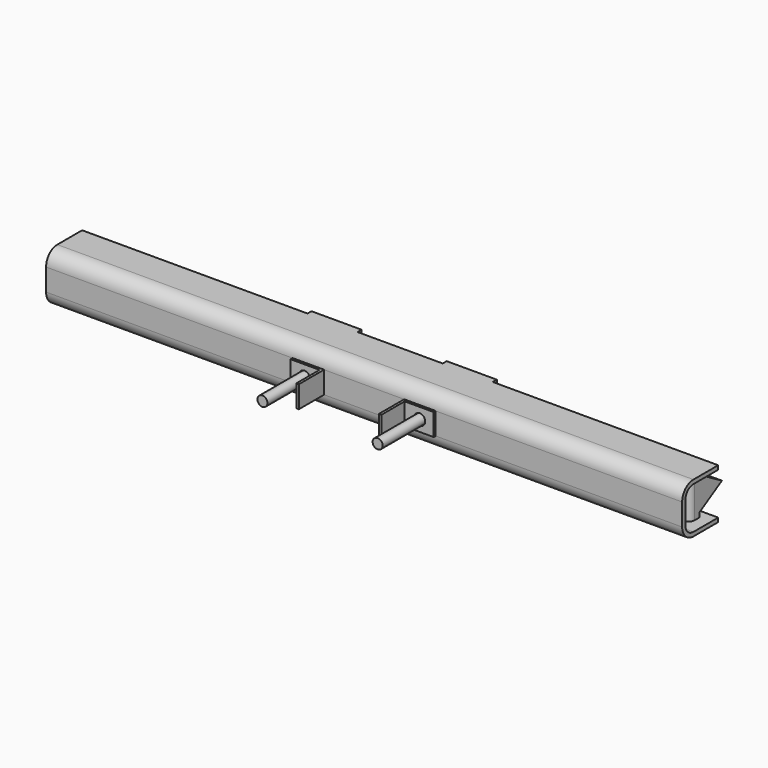
from build123d import *

# Parameters (mm, degrees)
F1_DEPTH       = 635
F3_DEPTH       = 22
F4_W           = 100
F4_H           = 100
F5_DEPTH       = 10
F6_R           = 11
F7_DEPTH       = 8
F7_DEPTH_BACK  = 63.001
F9_DEPTH       = 50
F9_DEPTH_BACK  = 50
F10_R          = 10
F11_DEPTH      = 200
F14_DEPTH      = 12
F14_DEPTH_BACK = 12
F17_DEPTH      = 12
F17_DEPTH_BACK = 12


with BuildPart() as f1:
    # F0 (on Right) → F1 (new body, symmetric)
    with BuildSketch(Plane.YZ):
        with BuildLine():
            Line((90, 42), (90, 50))
            Line((90, 50), (28, 50))
            ThreePointArc((28, 50), (8.2010101268, 41.7989898732), (0, 22))
            Line((0, 22), (0, -22))
            ThreePointArc((0, -22), (8.2010101268, -41.7989898732), (28, -50))
            Line((28, -50), (90, -50))
            Line((90, -50), (90, -42))
            Line((90, -42), (28, -42))
            ThreePointArc((28, -42), (13.8578643763, -36.1421356237), (8, -22))
            Line((8, -22), (8, 22))
            ThreePointArc((8, 22), (13.8578643763, 36.1421356237), (28, 42))
            Line((28, 42), (90, 42))
        make_face()
    extrude(amount=F1_DEPTH, both=True)

    # F2 (on Top) → F3 (join, symmetric)
    with BuildSketch(Plane.XY):
        Polygon((-80, 0), (-143, 0), (-143, -5), (-85, -5), (-85, -63), (-80, -63), align=None)
        Polygon((80, -63), (85, -63), (85, -5), (143, -5), (143, 0), (80, 0), align=None)
    extrude(amount=F3_DEPTH, both=True)

    # F4 (on face) → F5 (join)
    with BuildSketch(Plane(origin=(0, 90, 0), x_dir=(-1, 0, 0), z_dir=(0, 1, 0))):
        with Locations((-135, 0)):
            Rectangle(F4_W, F4_H)
        with Locations((135, 0)):
            Rectangle(F4_W, F4_H)
    extrude(amount=F5_DEPTH)

    # F6 (on Front) → F7 (cut, two sides)
    with BuildSketch(Plane.XZ) as f7_sk:
        with Locations((-115, 0)):
            Circle(F6_R)
        with Locations((115, 0)):
            Circle(F6_R)
    extrude(amount=-F7_DEPTH, mode=Mode.SUBTRACT)
    extrude(f7_sk.sketch, amount=F7_DEPTH_BACK, mode=Mode.SUBTRACT)

    # F8 (on Top) → F9 (join, two sides)
    with BuildSketch(Plane.XY) as f9_sk:
        with BuildLine():
            Line((-612, 72), (-612, 60))
            ThreePointArc((-612, 60), (-600, 48), (-588, 60))
            Line((-588, 60), (-588, 72))
            Line((-588, 72), (-612, 72))
        make_face()
        with BuildLine():
            ThreePointArc((588, 60), (600, 48), (612, 60))
            Line((612, 60), (612, 72))
            Line((612, 72), (588, 72))
            Line((588, 72), (588, 60))
        make_face()
    extrude(amount=F9_DEPTH)
    extrude(f9_sk.sketch, amount=-F9_DEPTH_BACK)

    # F10 (on face) → F11 (join)
    with BuildSketch(Plane.XZ.offset(-90)):
        with Locations((-115, 0)):
            Circle(F10_R)
        with Locations((115, 0)):
            Circle(F10_R)
    extrude(amount=F11_DEPTH)

    # F13 (on offset) → F14 (join, two sides)
    with BuildSketch(Plane.YZ.offset(600)) as f14_sk:
        Polygon((60, 40), (60, -40), (128, 0), align=None)
    extrude(amount=F14_DEPTH)
    extrude(f14_sk.sketch, amount=-F14_DEPTH_BACK)

    # F16 (on offset) → F17 (join, two sides)
    with BuildSketch(Plane.YZ.offset(-600)) as f17_sk:
        Polygon((60, -40), (128, 0), (60, 40), align=None)
    extrude(amount=F17_DEPTH)
    extrude(f17_sk.sketch, amount=-F17_DEPTH_BACK)


solid = f1.part
